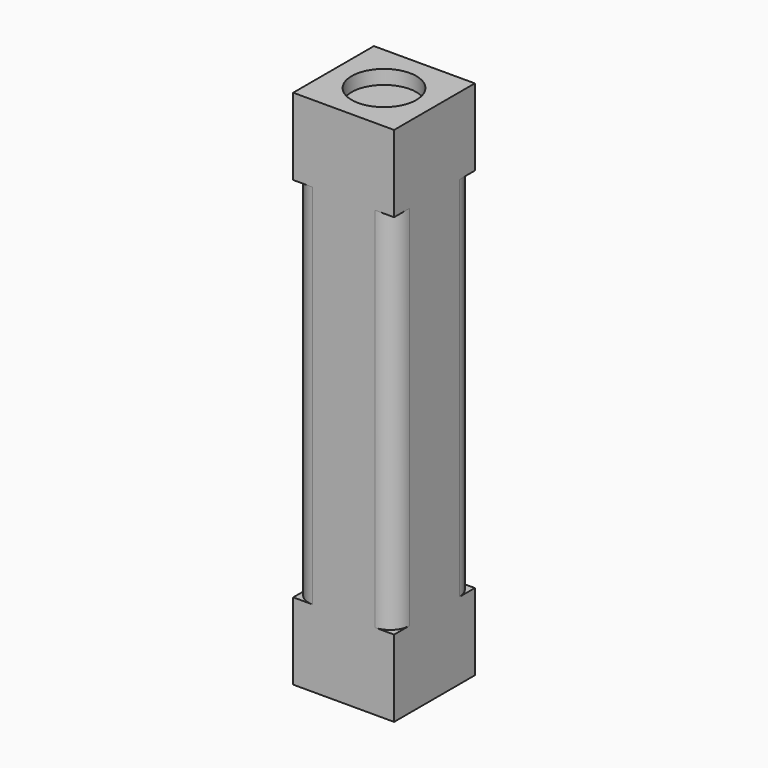
from build123d import *

# Parameters (mm, degrees)
SKETCH_W        = 15.75
SKETCH_H        = 15.75
PAD_DEPTH       = 12
PAD001_DEPTH    = 57.35
SKETCH002_W     = 15.75
SKETCH002_H     = 15.75
PAD002_DEPTH    = 12
SKETCH003_R     = 5.05
POCKET_DEPTH    = 2.2
SKETCH004_R     = 5.05
POCKET001_DEPTH = 2.2


with BuildPart() as part:
    # Sketch → Pad (new body)
    with BuildSketch(Plane.XY):
        Rectangle(SKETCH_W, SKETCH_H)
    extrude(amount=PAD_DEPTH)

    # Sketch001 → Pad001 (join)
    with BuildSketch(Plane.XY.offset(12)):
        with BuildLine():
            Line((-4.875, -7.875), (4.875, -7.875))
            ThreePointArc((4.875, -7.875), (6.99632, -6.99632), (7.875, -4.875))
            Line((7.875, -4.875), (7.875, 4.875))
            ThreePointArc((7.875, 4.875), (6.99632, 6.99632), (4.875, 7.875))
            Line((4.875, 7.875), (-4.875, 7.875))
            ThreePointArc((-4.875, 7.875), (-6.99632, 6.99632), (-7.875, 4.875))
            Line((-7.875, 4.875), (-7.875, -4.875))
            ThreePointArc((-7.875, -4.875), (-6.99632, -6.99632), (-4.875, -7.875))
        make_face()
    extrude(amount=PAD001_DEPTH)

    # Sketch002 (on Face15 of Pad001) → Pad002 (join)
    with BuildSketch(Plane.XY.offset(69.35)):
        Rectangle(SKETCH002_W, SKETCH002_H)
    extrude(amount=PAD002_DEPTH)

    # Sketch003 (on Face7 of Pad002) → Pocket (cut)
    with BuildSketch(Plane.XY.offset(81.35)):
        Circle(SKETCH003_R)
    extrude(amount=-POCKET_DEPTH, mode=Mode.SUBTRACT)

    # Sketch004 → Pocket001 (cut)
    with BuildSketch(Plane.XY):
        Circle(SKETCH004_R)
    extrude(amount=POCKET001_DEPTH, mode=Mode.SUBTRACT)


solid = part.part
